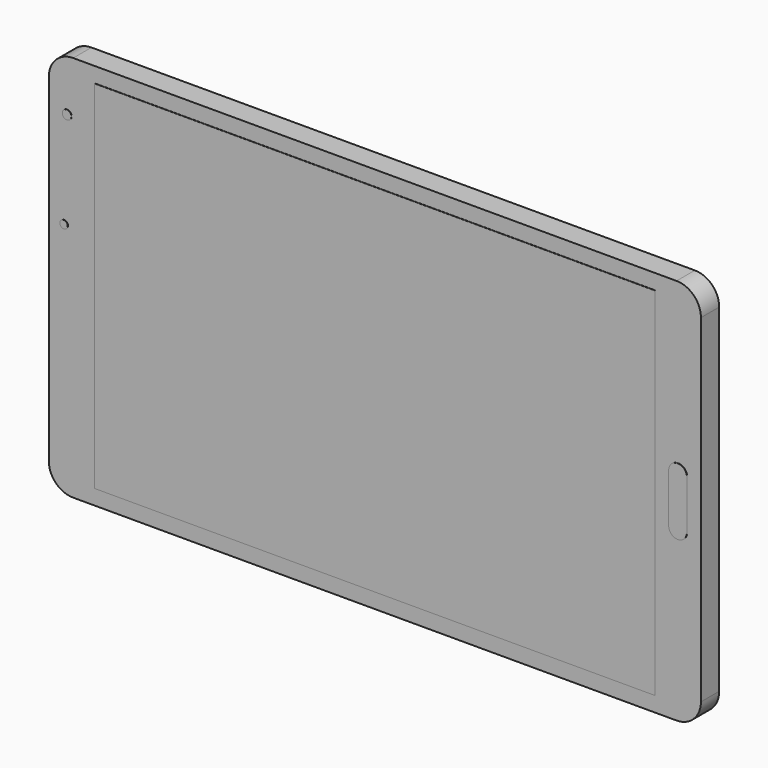
from build123d import *

# Parameters (mm, degrees)
F0_W     = 214
F0_H     = 127
F1_DEPTH = 3.75
F2_R     = 8
F3_W     = 184
F3_H     = 117
F3_R     = 1.3
F3_R_2   = 1.5
F4_DEPTH = 0.1


with BuildPart() as f1:
    # F0 (on Front) → F1 (new body, symmetric)
    with BuildSketch(Plane.XZ):
        Rectangle(F0_W, F0_H)
    extrude(amount=F1_DEPTH, both=True)

    # F2
    f2_edges = [f1.edges().sort_by_distance(p)[0] for p in [
        (107, 0, 63.5),
        (107, 0, -63.5),
        (-107, 0, 63.5),
        (-107, 0, -63.5),
    ]]
    fillet(f2_edges, radius=F2_R)


with BuildPart() as f4:
    # F3 (on face) → F4 (new body)
    with BuildSketch(Plane.XZ.offset(3.75)):
        with BuildLine():
            ThreePointArc((96.5, -8), (99.5, -11), (102.5, -8))
            Line((102.5, -8), (102.5, 8))
            ThreePointArc((102.5, 8), (99.5, 11), (96.5, 8))
            Line((96.5, 8), (96.5, -8))
        make_face()
        Rectangle(F3_W, F3_H)
        with Locations((-102, 14.5)):
            Circle(F3_R)
        with Locations((-101, 46.5)):
            Circle(F3_R_2)
    extrude(amount=F4_DEPTH)


solid = Compound([f1.part, f4.part])
